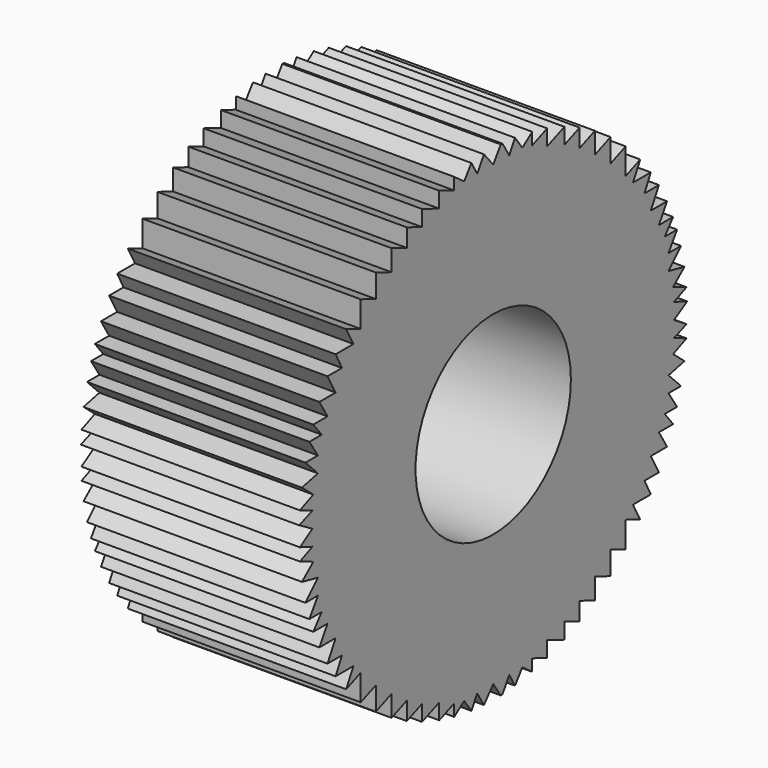
from build123d import *

# Parameters (mm, degrees)
F1_DEPTH = 22.86
F2_R     = 10.16
F3_DEPTH = 38.1


with BuildPart() as f1:
    # F0 (on Right) → F1 (new body)
    with BuildSketch(Plane.YZ):
        with BuildLine():
            Line((23.650777, 0), (25.379719, 1.014815))
            Line((25.379719, 1.014815), (23.650777, 1.661146))
            Line((23.650777, 1.661146), (25.290415, 2.356882))
            Line((25.290415, 2.356882), (23.538487, 3.094504))
            Line((23.538487, 3.094504), (25.025895, 4.343339))
            Line((25.025895, 4.343339), (22.934098, 4.803507))
            Line((22.934098, 4.803507), (24.565468, 6.457382))
            Line((24.565468, 6.457382), (22.934098, 6.457382))
            Line((22.934098, 6.457382), (24.051407, 8.166384))
            Line((24.051407, 8.166384), (22.437936, 8.166384))
            Line((22.437936, 8.166384), (23.538487, 9.544612))
            Line((23.538487, 9.544612), (21.677369, 9.544612))
            Line((21.677369, 9.544612), (22.743621, 11.308745))
            Line((22.743621, 11.308745), (20.61609, 11.308745))
            Line((20.61609, 11.308745), (21.677369, 13.238265))
            Line((21.677369, 13.238265), (19.791737, 13.238265))
            Line((19.791737, 13.238265), (20.61609, 14.837009))
            Line((20.61609, 14.837009), (18.285365, 14.837009))
            Line((18.285365, 14.837009), (19.237809, 16.585135))
            Line((19.237809, 16.585135), (17.33292, 15.836925))
            Line((17.33292, 15.836925), (17.33292, 18.566903))
            Line((17.33292, 18.566903), (15.356795, 17.790713))
            Line((15.356795, 17.790713), (15.356795, 20.231877))
            Line((15.356795, 20.231877), (13.300184, 19.424073))
            Line((13.300184, 19.424073), (13.300184, 21.639434))
            Line((13.300184, 21.639434), (11.304469, 20.85555))
            Line((11.304469, 20.85555), (11.304469, 22.745746))
            Line((11.304469, 22.745746), (9.314078, 21.963953))
            Line((9.314078, 21.963953), (9.314078, 23.630657))
            Line((9.314078, 23.630657), (7.061159, 22.745746))
            Line((7.061159, 22.745746), (7.061159, 24.398771))
            Line((7.061159, 24.398771), (5.105594, 23.630657))
            Line((5.105594, 23.630657), (5.105594, 24.881578))
            Line((5.105594, 24.881578), (3.804288, 23.933317))
            Line((3.804288, 23.933317), (2.852615, 25.239306))
            Line((2.852615, 25.239306), (2.095285, 23.933317))
            Line((2.095285, 23.933317), (1.213507, 25.370995))
            ThreePointArc((1.213507, 25.370995), (1.101785, 25.376093), (0.990041, 25.380698))
            Line((0.990041, 25.380698), (0, 23.933317))
            Line((0, 23.933317), (-1.213507, 25.370995))
            Line((-1.213507, 25.370995), (-2.095285, 23.933317))
            Line((-2.095285, 23.933317), (-2.852615, 25.239306))
            Line((-2.852615, 25.239306), (-3.804288, 23.933317))
            Line((-3.804288, 23.933317), (-5.105594, 24.881578))
            Line((-5.105594, 24.881578), (-5.105594, 23.630657))
            Line((-5.105594, 23.630657), (-7.061159, 24.398771))
            Line((-7.061159, 24.398771), (-7.061159, 22.745746))
            Line((-7.061159, 22.745746), (-9.314078, 23.630657))
            Line((-9.314078, 23.630657), (-9.314078, 21.963953))
            Line((-9.314078, 21.963953), (-11.304469, 22.745746))
            Line((-11.304469, 22.745746), (-11.304469, 20.85555))
            Line((-11.304469, 20.85555), (-13.300184, 21.639434))
            Line((-13.300184, 21.639434), (-13.300184, 19.424073))
            Line((-13.300184, 19.424073), (-15.356795, 20.231877))
            Line((-15.356795, 20.231877), (-15.356795, 17.790713))
            Line((-15.356795, 17.790713), (-17.33292, 18.566903))
            Line((-17.33292, 18.566903), (-17.33292, 15.836925))
            Line((-17.33292, 15.836925), (-19.237809, 16.585135))
            Line((-19.237809, 16.585135), (-18.285365, 14.837009))
            Line((-18.285365, 14.837009), (-20.61609, 14.837009))
            Line((-20.61609, 14.837009), (-19.791737, 13.238265))
            Line((-19.791737, 13.238265), (-21.677369, 13.238265))
            Line((-21.677369, 13.238265), (-20.61609, 11.308745))
            Line((-20.61609, 11.308745), (-22.743621, 11.308745))
            Line((-22.743621, 11.308745), (-21.677369, 9.544612))
            Line((-21.677369, 9.544612), (-23.538487, 9.544612))
            Line((-23.538487, 9.544612), (-22.437936, 8.166384))
            Line((-22.437936, 8.166384), (-24.051407, 8.166384))
            Line((-24.051407, 8.166384), (-22.934098, 6.457382))
            Line((-22.934098, 6.457382), (-24.565468, 6.457382))
            Line((-24.565468, 6.457382), (-22.934098, 4.803507))
            Line((-22.934098, 4.803507), (-25.025895, 4.343339))
            Line((-25.025895, 4.343339), (-23.538487, 3.094504))
            Line((-23.538487, 3.094504), (-25.290415, 2.356882))
            Line((-25.290415, 2.356882), (-23.650777, 1.661146))
            Line((-23.650777, 1.661146), (-25.379719, 1.014815))
            Line((-25.379719, 1.014815), (-23.650777, 0))
            Line((-23.650777, 0), (-25.290127, -1.048307))
            Line((-25.290127, -1.048307), (-23.650777, -1.661146))
            Line((-23.650777, -1.661146), (-25.290415, -2.356882))
            Line((-25.290415, -2.356882), (-23.538487, -3.094504))
            Line((-23.538487, -3.094504), (-25.025895, -4.343339))
            Line((-25.025895, -4.343339), (-22.934098, -4.803507))
            Line((-22.934098, -4.803507), (-24.565468, -6.457382))
            Line((-24.565468, -6.457382), (-22.934098, -6.457382))
            Line((-22.934098, -6.457382), (-24.051407, -8.166384))
            Line((-24.051407, -8.166384), (-22.437936, -8.166384))
            Line((-22.437936, -8.166384), (-23.538487, -9.544612))
            Line((-23.538487, -9.544612), (-21.677369, -9.544612))
            Line((-21.677369, -9.544612), (-22.743621, -11.308745))
            Line((-22.743621, -11.308745), (-20.61609, -11.308745))
            Line((-20.61609, -11.308745), (-21.677369, -13.238265))
            Line((-21.677369, -13.238265), (-19.791737, -13.238265))
            Line((-19.791737, -13.238265), (-20.61609, -14.837009))
            Line((-20.61609, -14.837009), (-18.285365, -14.837009))
            Line((-18.285365, -14.837009), (-19.237809, -16.585135))
            Line((-19.237809, -16.585135), (-17.33292, -15.836925))
            Line((-17.33292, -15.836925), (-17.33292, -18.566903))
            Line((-17.33292, -18.566903), (-15.356795, -17.790713))
            Line((-15.356795, -17.790713), (-15.356795, -20.231877))
            Line((-15.356795, -20.231877), (-13.300184, -19.424073))
            Line((-13.300184, -19.424073), (-13.300184, -21.639434))
            Line((-13.300184, -21.639434), (-11.304469, -20.85555))
            Line((-11.304469, -20.85555), (-11.304469, -22.745746))
            Line((-11.304469, -22.745746), (-9.314078, -21.963953))
            Line((-9.314078, -21.963953), (-9.314078, -23.630657))
            Line((-9.314078, -23.630657), (-7.061159, -22.745746))
            Line((-7.061159, -22.745746), (-7.061159, -24.398771))
            Line((-7.061159, -24.398771), (-5.105594, -23.630657))
            Line((-5.105594, -23.630657), (-5.105594, -24.881578))
            Line((-5.105594, -24.881578), (-3.804288, -23.933317))
            Line((-3.804288, -23.933317), (-2.852615, -25.239306))
            Line((-2.852615, -25.239306), (-2.095285, -23.933317))
            Line((-2.095285, -23.933317), (-1.213507, -25.370995))
            Line((-1.213507, -25.370995), (0, -23.933317))
            Line((0, -23.933317), (0.990041, -25.380698))
            ThreePointArc((0.990041, -25.380698), (1.101785, -25.376093), (1.213507, -25.370995))
            Line((1.213507, -25.370995), (2.095285, -23.933317))
            Line((2.095285, -23.933317), (2.852615, -25.239306))
            Line((2.852615, -25.239306), (3.804288, -23.933317))
            Line((3.804288, -23.933317), (5.105594, -24.881578))
            Line((5.105594, -24.881578), (5.105594, -23.630657))
            Line((5.105594, -23.630657), (7.061159, -24.398771))
            Line((7.061159, -24.398771), (7.061159, -22.745746))
            Line((7.061159, -22.745746), (9.314078, -23.630657))
            Line((9.314078, -23.630657), (9.314078, -21.963953))
            Line((9.314078, -21.963953), (11.304469, -22.745746))
            Line((11.304469, -22.745746), (11.304469, -20.85555))
            Line((11.304469, -20.85555), (13.300184, -21.639434))
            Line((13.300184, -21.639434), (13.300184, -19.424073))
            Line((13.300184, -19.424073), (15.356795, -20.231877))
            Line((15.356795, -20.231877), (15.356795, -17.790713))
            Line((15.356795, -17.790713), (17.33292, -18.566903))
            Line((17.33292, -18.566903), (17.33292, -15.836925))
            Line((17.33292, -15.836925), (19.237809, -16.585135))
            Line((19.237809, -16.585135), (18.285365, -14.837009))
            Line((18.285365, -14.837009), (20.61609, -14.837009))
            Line((20.61609, -14.837009), (19.791737, -13.238265))
            Line((19.791737, -13.238265), (21.677369, -13.238265))
            Line((21.677369, -13.238265), (20.61609, -11.308745))
            Line((20.61609, -11.308745), (22.743621, -11.308745))
            Line((22.743621, -11.308745), (21.677369, -9.544612))
            Line((21.677369, -9.544612), (23.538487, -9.544612))
            Line((23.538487, -9.544612), (22.437936, -8.166384))
            Line((22.437936, -8.166384), (24.051407, -8.166384))
            Line((24.051407, -8.166384), (22.934098, -6.457382))
            Line((22.934098, -6.457382), (24.565468, -6.457382))
            Line((24.565468, -6.457382), (22.934098, -4.803507))
            Line((22.934098, -4.803507), (25.025895, -4.343339))
            Line((25.025895, -4.343339), (23.538487, -3.094504))
            Line((23.538487, -3.094504), (25.290415, -2.356882))
            Line((25.290415, -2.356882), (23.650777, -1.661146))
            Line((23.650777, -1.661146), (25.290127, -1.048307))
            Line((25.290127, -1.048307), (23.650777, 0))
        make_face()
    extrude(amount=F1_DEPTH)

    # F2 (on face) → F3 (cut)
    with BuildSketch(Plane.YZ.offset(22.86)):
        Circle(F2_R)
    extrude(amount=-F3_DEPTH, mode=Mode.SUBTRACT)


solid = f1.part
